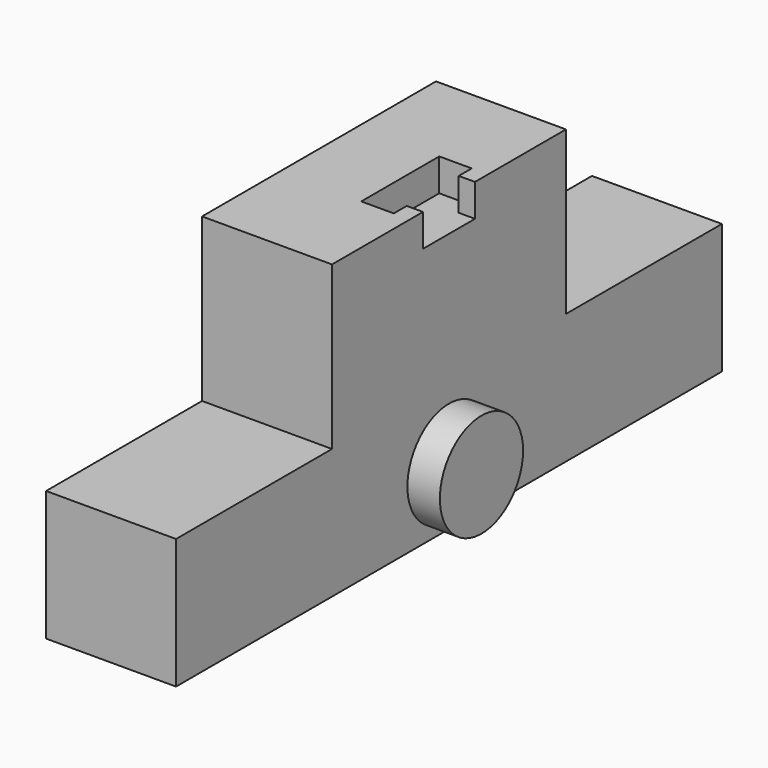
from build123d import *

# Parameters (mm, degrees)
F0_W     = 20
F0_H     = 45
F1_DEPTH = 45
F3_DEPTH = 5
F4_R     = 8
F5_DEPTH = 5
F6_W     = 20
F6_H     = 20
F7_DEPTH = 30
F8_W     = 20
F8_H     = 20
F9_DEPTH = 30


with BuildPart() as f1:
    # F0 (on Top) → F1 (new body)
    with BuildSketch(Plane.XY):
        with Locations((-10, 22.5)):
            Rectangle(F0_W, F0_H)
    extrude(amount=F1_DEPTH)

    # F2 (on face) → F3 (cut)
    with BuildSketch(Plane.XY.offset(45)):
        Polygon((0, 17.5), (0, 27.5), (-2.5, 27.5), (-2.5, 30), (-7.5, 30), (-7.5, 15), (-2.5, 15), (-2.5, 17.5), align=None)
    extrude(amount=-F3_DEPTH, mode=Mode.SUBTRACT)

    # F4 (on face) → F5 (join)
    with BuildSketch(Plane.YZ):
        with Locations((22.5, 9)):
            Circle(F4_R)
    extrude(amount=F5_DEPTH)

    # F6 (on face) → F7 (join)
    with BuildSketch(Plane.XZ):
        with Locations((-10, 10)):
            Rectangle(F6_W, F6_H)
    extrude(amount=F7_DEPTH)

    # F8 (on face) → F9 (join)
    with BuildSketch(Plane(origin=(0, 45, 0), x_dir=(-1, 0, 0), z_dir=(0, 1, 0))):
        with Locations((10, 10)):
            Rectangle(F8_W, F8_H)
    extrude(amount=F9_DEPTH)


solid = f1.part
